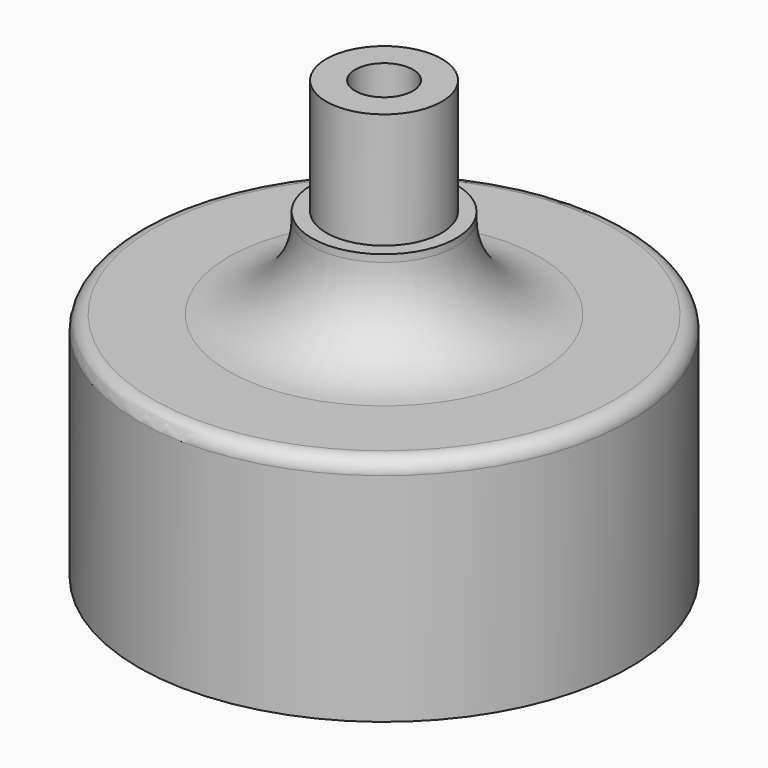
from build123d import *


with BuildPart() as f1:
    # F0 (on Front) → F1 (revolve)
    with BuildSketch(Plane.XZ):
        with BuildLine():
            Line((-17, 15), (-17, 0))
            Line((-17, 0), (-2, 0))
            Line((-2, 0), (-2, 30.25))
            Line((-2, 30.25), (-4, 30.25))
            Line((-4, 30.25), (-4, 22.25))
            Line((-4, 22.25), (-5, 22.25))
            Line((-5, 22.25), (-5, 21.75))
            ThreePointArc((-5, 21.75), (-6.684136, 17.684136), (-10.75, 16))
            Line((-10.75, 16), (-16, 16))
            ThreePointArc((-16, 16), (-16.707107, 15.707107), (-17, 15))
        make_face()
    revolve(axis=Axis((0, 0, 15.125), (0, 0, -1)))


solid = f1.part
